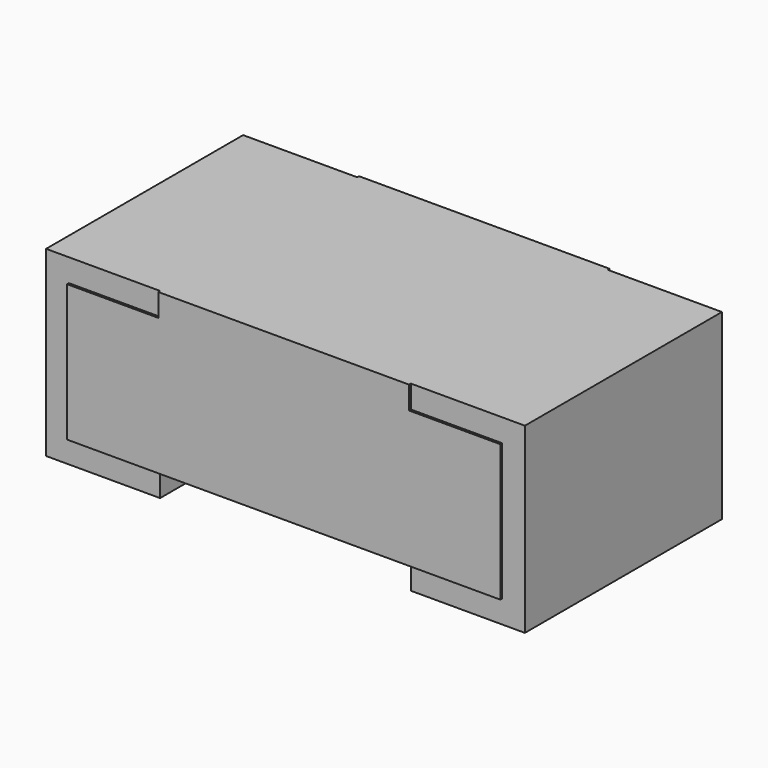
from build123d import *

# Parameters (mm, degrees)
PLATING_LEFT_W      = 0.25
PLATING_LEFT_H      = 0.54
PLATING_LEFT_DEPTH  = 0.4
PLATING_RIGHT_W     = 0.25
PLATING_RIGHT_H     = 0.54
PLATING_RIGHT_DEPTH = 0.4
MARKING_W           = 0.55
MARKING_H           = 0.55
MARKING_DEPTH       = 0.05
CHIP_W              = 0.95
CHIP_H              = 0.55
CHIP_DEPTH          = 0.3


with BuildPart() as plating_left:
    # plating_left → plating_left (new body)
    with BuildSketch(Plane(origin=(-0.525, -0.27, 0), x_dir=(1, 0, 0), z_dir=(0, 0, 1))):
        with Locations((0.125, 0.27)):
            Rectangle(PLATING_LEFT_W, PLATING_LEFT_H)
    extrude(amount=PLATING_LEFT_DEPTH)


with BuildPart() as plating_right:
    # plating_right → plating_right (new body)
    with BuildSketch(Plane(origin=(0.275, -0.27, 0), x_dir=(1, 0, 0), z_dir=(0, 0, 1))):
        with Locations((0.125, 0.27)):
            Rectangle(PLATING_RIGHT_W, PLATING_RIGHT_H)
    extrude(amount=PLATING_RIGHT_DEPTH)


with BuildPart() as marking:
    # marking → marking (new body)
    with BuildSketch(Plane(origin=(-0.275, -0.275, 0.35), x_dir=(1, 0, 0), z_dir=(0, 0, 1))):
        with Locations((0.275, 0.275)):
            Rectangle(MARKING_W, MARKING_H)
    extrude(amount=MARKING_DEPTH)


with BuildPart() as resistor:
    # chip → chip (new body)
    with BuildSketch(Plane(origin=(-0.475, -0.275, 0.05), x_dir=(1, 0, 0), z_dir=(0, 0, 1))):
        with Locations((0.475, 0.275)):
            Rectangle(CHIP_W, CHIP_H)
    extrude(amount=CHIP_DEPTH)

    # resistor: union plating_left, plating_right, marking
    add(plating_left.part)
    add(plating_right.part)
    add(marking.part)


solid = resistor.part
